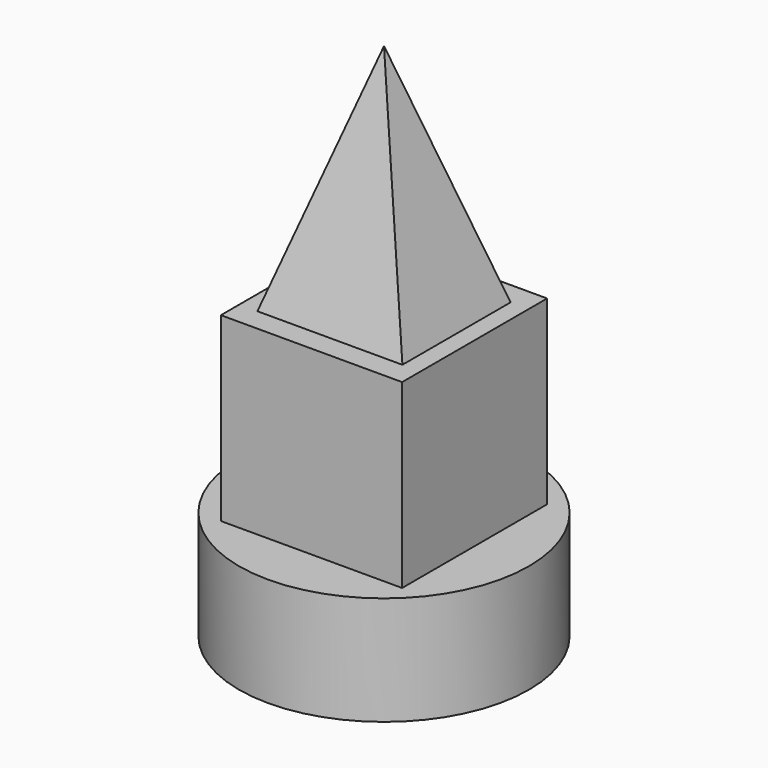
from build123d import *

# Parameters (mm, degrees)
F0_R     = 40
F1_DEPTH = 30
F2_W     = 50
F2_H     = 50
F3_DEPTH = 50
F4_W     = 40
F4_H     = 37.309842


with BuildPart() as f1:
    # F0 (on Top) → F1 (new body)
    with BuildSketch(Plane.XY):
        Circle(F0_R)
    extrude(amount=F1_DEPTH)

    # F2 (on face) → F3 (join)
    with BuildSketch(Plane.XY.offset(30)):
        Rectangle(F2_W, F2_H)
    extrude(amount=F3_DEPTH)

    # F4 (on face) → F6 section 0
    with BuildSketch(Plane.XY.offset(80), mode=Mode.PRIVATE) as f6_s0:
        Rectangle(F4_W, F4_H)
    loft([Vertex(0, 0, 143.321168), f6_s0.sketch])


solid = f1.part
